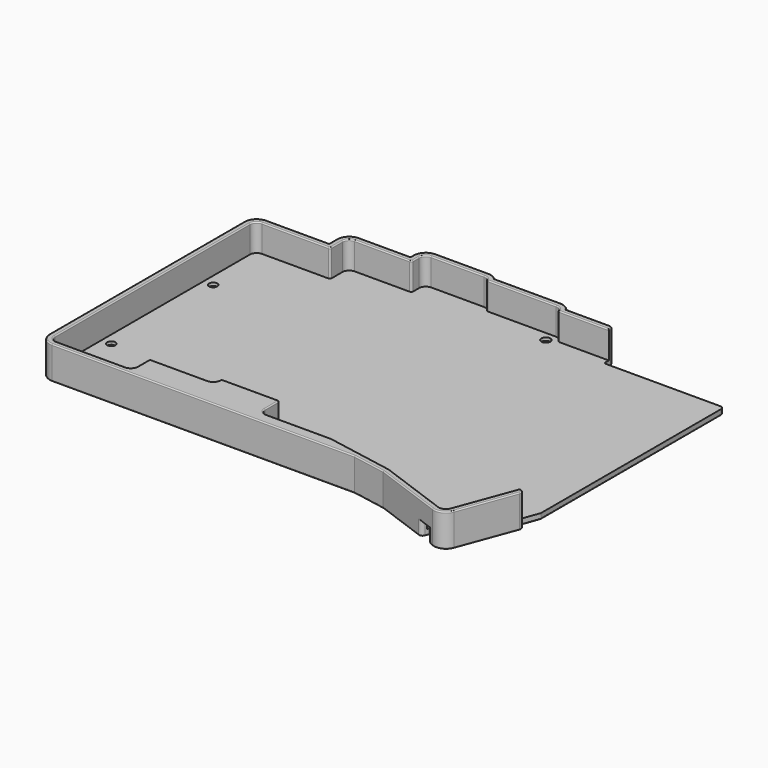
from build123d import *

# Parameters (mm, degrees)
PAD010_DEPTH         = 7.3
PAD010_DEPTH_BACK    = 1.5
POCKET008_DEPTH      = 10
SKETCH024_W          = 7.516364
SKETCH024_H          = 7.12941
POCKET009_DEPTH      = 10
POCKET009_DEPTH_BACK = 10
SKETCH025_R          = 1.2
SKETCH025_R_2        = 1.1
POCKET010_DEPTH      = 20
FILLET_R             = 1
FILLET002_R          = 0.499
SKETCH027_R          = 2.5
POCKET012_DEPTH      = 5
POCKET019_DEPTH      = 5
POCKET019_DEPTH_BACK = 2.4
FILLET009_R          = 1
FILLET003_R          = 0.299


with BuildPart() as case_key001:
    # Sketch021 → Pad010 (new body, two sides)
    with BuildSketch(Plane.XY.offset(-5.1)) as pad010_sk:
        with BuildLine():
            Line((78.000001, -76.1), (15.615872, -76.1))
            Line((6.65976, -77.728932), (15.615872, -76.1))
            Line((-11.88183, -84.480745), (6.65976, -77.728932))
            ThreePointArc((-16.10595, -82.524941), (-14.397471, -84.374493), (-11.88183, -84.480745))
            Line((-21.988183, -66.62453), (-16.10595, -82.524941))
            Line((-20.3, -66), (-21.988183, -66.62453))
            Line((-22.1, -61.054541), (-20.3, -66))
            Line((-22.1, 0), (-22.1, -61.054541))
            Line((8.1, 0), (-22.1, 0))
            Line((8.1, 3.1), (8.1, 0))
            Line((22.434137, 3.1), (8.1, 3.1))
            ThreePointArc((25.199999, 4.6), (23.626787, 4.200862), (22.434137, 3.1))
            Line((42.840325, 4.6), (25.199999, 4.6))
            ThreePointArc((45.3, 5.7), (43.952781, 5.412474), (42.840325, 4.6))
            Line((59.400001, 5.7), (45.3, 5.7))
            ThreePointArc((62.7, 2.400001), (61.733452, 4.733452), (59.400001, 5.7))
            Line((62.7, 1.4), (62.7, 2.400001))
            Line((76.400001, 1.4), (62.7, 1.4))
            ThreePointArc((79.7, -1.899999), (78.733452, 0.433452), (76.400001, 1.4))
            Line((79.7, -4.5), (79.7, -1.899999))
            Line((96.400001, -4.5), (79.7, -4.5))
            ThreePointArc((99.7, -7.799999), (98.733452, -5.466548), (96.400001, -4.5))
            Line((99.7, -59.8), (99.7, -7.799999))
            Line((99.7, -72.800001), (99.7, -59.8))
            ThreePointArc((96.400001, -76.1), (98.733452, -75.133452), (99.7, -72.800001))
            Line((78.000001, -76.1), (96.400001, -76.1))
        make_face()
    extrude(amount=PAD010_DEPTH)
    extrude(pad010_sk.sketch, amount=-PAD010_DEPTH_BACK)

    # Sketch023 → Pocket008 (cut)
    with BuildSketch(Plane.XY.offset(-5.1)):
        with BuildLine():
            Line((-22.1, 0.3), (5, 0.3))
            Line((9.6, 0.3), (5, 0.3))
            Line((9.6, 1.3), (9.6, 0.3))
            ThreePointArc((9.9, 1.6), (9.687868, 1.512132), (9.6, 1.3))
            Line((23.425176, 1.6), (9.9, 1.6))
            ThreePointArc((25.2, 3.1), (24.038105, 2.674773), (23.425176, 1.6))
            Line((43.641688, 3.1), (25.2, 3.1))
            ThreePointArc((45.3, 4.2), (44.305013, 3.9), (43.641688, 3.1))
            Line((59.4, 4.2), (45.3, 4.2))
            ThreePointArc((61.2, 2.4), (60.672792, 3.672792), (59.4, 4.2))
            Line((61.2, -0.1), (61.2, 2.4))
            Line((76.4, -0.1), (61.2, -0.1))
            ThreePointArc((78.2, -1.9), (77.672792, -0.627208), (76.4, -0.1))
            Line((78.2, -6), (78.2, -1.9))
            Line((96.4, -6), (78.2, -6))
            ThreePointArc((98.2, -7.8), (97.672792, -6.527208), (96.4, -6))
            Line((98.2, -59.8), (98.2, -7.8))
            Line((98.2, -72.8), (98.2, -59.8))
            ThreePointArc((96.4, -74.6), (97.672792, -74.072792), (98.2, -72.8))
            Line((78, -74.6), (96.4, -74.6))
            ThreePointArc((76.2, -72.8), (76.727208, -74.072792), (78, -74.6))
            Line((76.2, -68.7), (76.2, -72.8))
            Line((68.6, -68.7), (76.2, -68.7))
            Line((67.1, -68.7), (68.6, -68.7))
            Line((60.7, -68.7), (67.1, -68.7))
            ThreePointArc((58.9, -66.9), (59.427208, -68.172792), (60.7, -68.7))
            Line((58.9, -66.4), (58.9, -66.9))
            Line((51.15, -66.4), (58.9, -66.4))
            Line((49.65, -66.4), (51.15, -66.4))
            Line((43.4, -66.4), (49.65, -66.4))
            Line((43.4, -71.2), (43.4, -66.4))
            ThreePointArc((41.6, -73), (42.872792, -72.472792), (43.4, -71.2))
            Line((41.400037, -73), (41.6, -73))
            Line((24.254102, -73.004276), (41.400037, -73))
            Line((6.266115, -76.275919), (24.254102, -73.004276))
            Line((-12.395075, -83.071263), (6.266115, -76.275919))
            ThreePointArc((-14.699153, -82.00444), (-13.767262, -83.013318), (-12.395075, -83.071263))
            Line((-22.381364, -61.238463), (-14.699153, -82.00444))
            ThreePointArc((-22.4, -61.134375), (-22.395304, -61.187247), (-22.381364, -61.238463))
            Line((-22.4, 0), (-22.4, -61.134375))
            ThreePointArc((-22.1, 0.3), (-22.312132, 0.212132), (-22.4, 0))
        make_face()
    extrude(amount=POCKET008_DEPTH, mode=Mode.SUBTRACT)

    # Sketch024 → Pocket009 (cut, two sides)
    with BuildSketch(Plane.XY.offset(-5.1)) as pocket009_sk:
        with Locations((6.141818, 3.564705)):
            Rectangle(SKETCH024_W, SKETCH024_H)
    extrude(amount=POCKET009_DEPTH, mode=Mode.SUBTRACT)
    extrude(pocket009_sk.sketch, amount=-POCKET009_DEPTH_BACK, mode=Mode.SUBTRACT)

    # Sketch025 → Pocket010 (cut)
    with BuildSketch(Plane.XY):
        with Locations((25.9, 0.6)):
            Circle(SKETCH025_R)
        with Locations((25.9, 0.6)):
            Circle(SKETCH025_R)
        with Locations((95.6, -23.3)):
            Circle(SKETCH025_R_2)
        with Locations((95.6, -57.3)):
            Circle(SKETCH025_R_2)
        with Locations((-14, -73.8)):
            Circle(SKETCH025_R)
    extrude(amount=-POCKET010_DEPTH, mode=Mode.SUBTRACT)

    # Fillet
    fillet_edges = [case_key001.edges().sort_by_distance(p)[0] for p in [
        (9.9, 3.1, -2.2),
        (-22.1, 0, -5.85),
        (-21.988183, -66.62453, -2.2),
    ]]
    fillet(fillet_edges, radius=FILLET_R)

    # Fillet002
    fillet002_edges = [case_key001.edges().sort_by_distance(p)[0] for p in [
        (23.425176, 1.6, -1.45),
        (43.641688, 3.1, -1.45),
        (61.2, -0.1, -1.45),
        (78.2, -6, -1.45),
        (58.9, -66.4, -1.45),
        (76.2, -68.7, -1.45),
        (43.4, -66.4, -1.45),
        (9.9, 0, -5.85),
    ]]
    fillet(fillet002_edges, radius=FILLET002_R)

    # Sketch027 → Pocket012 (cut)
    with BuildSketch(Plane.XY.offset(-5.9)):
        with Locations((95.6, -23.3)):
            Circle(SKETCH027_R)
        with Locations((95.6, -57.3)):
            Circle(SKETCH027_R)
        with Locations((-14, -73.8)):
            Circle(SKETCH027_R)
        with Locations((25.9, 0.6)):
            Circle(SKETCH027_R)
    extrude(amount=-POCKET012_DEPTH, mode=Mode.SUBTRACT)

    # Sketch037 → Pocket019 (cut, two sides)
    with BuildSketch(Plane.XY.offset(-5.1)) as pocket019_sk:
        with BuildLine():
            Line((-7.5, -83), (-10.319078, -84.02606))
            Line((-10.319078, -84.02606), (-10.968916, -82.240644))
            ThreePointArc((-8.149838, -81.214584), (-10.072407, -80.318075), (-10.968916, -82.240644))
            Line((-8.149838, -81.214584), (-7.5, -83))
        make_face()
    extrude(amount=-POCKET019_DEPTH, mode=Mode.SUBTRACT)
    extrude(pocket019_sk.sketch, amount=POCKET019_DEPTH_BACK, mode=Mode.SUBTRACT)

    # Fillet009
    fillet009_edges = [case_key001.edges().sort_by_distance(p)[0] for p in [
        (-10.355838, -83.925064, -4.65),
        (-7.536917, -82.89857, -4.65),
    ]]
    fillet(fillet009_edges, radius=FILLET009_R)

    # Fillet003
    fillet003_edges = [case_key001.edges().sort_by_distance(p)[0] for p in [
        (0.031313, -80.142643, -6.6),
        (-7.361846, -82.523053, -6.6),
        (11.137816, -76.914466, -6.6),
        (-8.014414, -81.586659, -6.6),
        (56.007936, -76.1, -6.6),
        (-10.072407, -80.318075, -6.6),
        (98.733452, -75.133452, -6.6),
        (-10.833361, -82.61308, -6.6),
        (99.7, -40.3, -6.6),
        (-10.731158, -83.750085, -6.6),
        (98.733452, -5.466548, -6.6),
        (-11.588581, -84.373961, -6.6),
        (88.05, -4.5, -6.6),
        (-14.397471, -84.374493, -6.6),
        (79.7, -3.2, -6.6),
        (-18.873586, -75.043675, -6.6),
        (78.733452, 0.433452, -6.6),
        (-21.611862, -66.797606, -6.6),
        (69.55, 1.4, -6.6),
        (-20.675152, -66.138784, -6.6),
        (62.7, 1.9, -6.6),
        (-21.2, -63.527271, -6.6),
        (61.733452, 4.733452, -6.6),
        (-22.1, -31.027271, -6.6),
        (52.35, 5.7, -6.6),
        (-21.807107, -0.292893, -6.6),
        (43.952781, 5.412474, -6.6),
        (-5.8495, 0, -6.6),
        (34.020162, 4.6, -6.6),
        (9.753846, 0.146154, -6.6),
        (23.626787, 4.200862, -6.6),
        (9.9, 1.2995, -6.6),
        (16.667068, 3.1, -6.6),
        (10.192893, 2.807107, -6.6),
        (-16.5, -73.8, -6.6),
        (93.1, -57.3, -6.6),
        (23.4, 0.6, -6.6),
        (93.1, -23.3, -6.6),
        (43.4, -69.0495, 2.2),
        (43.546154, -66.546154, 2.2),
        (42.872792, -72.472792, 2.2),
        (51.15, -66.4, 2.2),
        (41.500019, -73, 2.2),
        (58.753846, -66.546154, 2.2),
        (32.82707, -73.002138, 2.2),
        (58.9, -66.8995, 2.2),
        (15.260108, -74.640098, 2.2),
        (59.427208, -68.172792, 2.2),
        (-3.06448, -79.673591, 2.2),
        (68.2005, -68.7, 2.2),
        (-13.767262, -83.013318, 2.2),
        (76.053846, -68.846154, 2.2),
        (-17.640258, -74.054264, 2.2),
        (76.2, -70.9995, 2.2),
        (-20.815834, -66.190829, 2.2),
        (76.727208, -74.072792, 2.2),
        (-21.611862, -66.797606, 2.2),
        (87.2, -74.6, 2.2),
        (-18.873586, -75.043675, 2.2),
        (97.672792, -74.072792, 2.2),
        (-14.397471, -84.374493, 2.2),
        (98.2, -40.3, 2.2),
        (-2.611035, -81.104839, 2.2),
        (97.672792, -6.527208, 2.2),
        (11.137816, -76.914466, 2.2),
        (87.5495, -6, 2.2),
        (56.007936, -76.1, 2.2),
        (78.346154, -5.853846, 2.2),
        (98.733452, -75.133452, 2.2),
        (78.2, -3.7005, 2.2),
        (99.7, -40.3, 2.2),
        (77.672792, -0.627208, 2.2),
        (98.733452, -5.466548, 2.2),
        (69.0495, -0.1, 2.2),
        (88.05, -4.5, 2.2),
        (61.346154, 0.046154, 2.2),
        (79.7, -3.2, 2.2),
        (61.2, 1.3995, 2.2),
        (78.733452, 0.433452, 2.2),
        (60.672792, 3.672792, 2.2),
        (69.55, 1.4, 2.2),
        (52.35, 4.2, 2.2),
        (62.7, 1.9, 2.2),
        (44.419591, 3.969994, 2.2),
        (61.733452, 4.733452, 2.2),
        (43.582488, 3.163763, 2.2),
        (52.35, 5.7, 2.2),
        (34.269209, 3.1, 2.2),
        (43.952781, 5.412474, 2.2),
        (24.171904, 2.777504, 2.2),
        (34.020162, 4.6, 2.2),
        (23.329321, 1.689403, 2.2),
        (23.626787, 4.200862, 2.2),
        (16.472155, 1.6, 2.2),
        (16.667068, 3.1, 2.2),
        (9.9, 1.85, 2.2),
        (10.192893, 2.807107, 2.2),
    ]]
    fillet(fillet003_edges, radius=FILLET003_R)


with BuildPart() as case_key001_1:
    # Link placement: moved
    add(case_key001.part.moved(Location((0, 100, 0))))


with BuildPart() as part_mirroring002:
    # Part__Mirroring002: instance of case-key001
    add(case_key001_1.part.mirror(Plane(origin=(0, 0, 0), x_dir=(0, -1, 0), z_dir=(1, 0, 0))))


with BuildPart() as part_mirroring002_1:
    # Part__Mirroring002 placement: moved
    add(part_mirroring002.part.moved(Location((-50, 0, 0))))


solid = part_mirroring002_1.part
